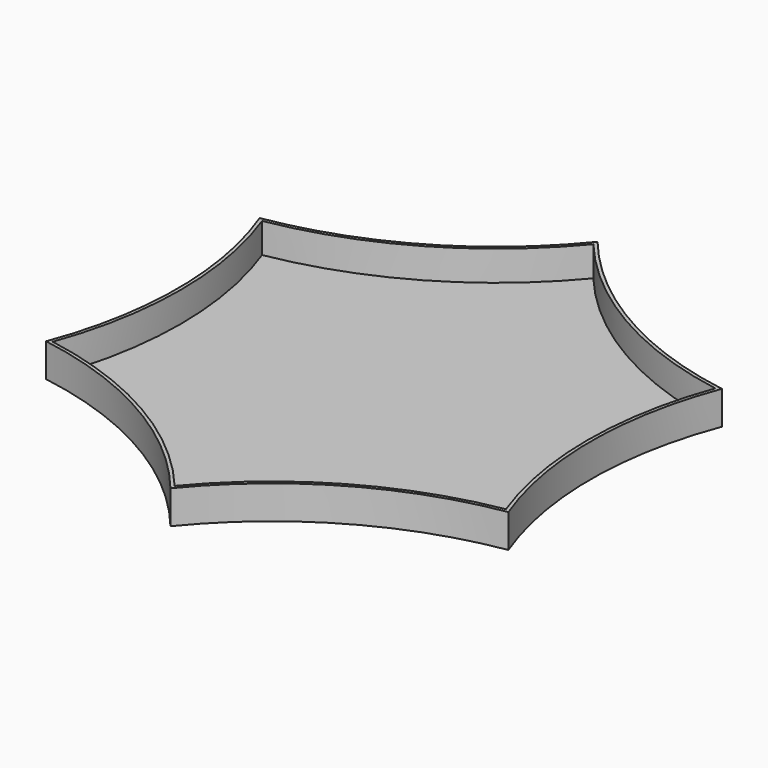
from build123d import *

# Parameters (mm, degrees)
F1_DEPTH = 25
F2_T     = -2.5


with BuildPart() as f1:
    # F0 (on Top) → F1 (new body)
    with BuildSketch(Plane.XY):
        with BuildLine():
            ThreePointArc((-173.205081, 100), (-154.860158, 0), (-173.205081, -100))
            ThreePointArc((-173.205081, -100), (-77.430079, -134.112831), (0, -200))
            ThreePointArc((0, -200), (77.430079, -134.112831), (173.205081, -100))
            ThreePointArc((173.205081, -100), (154.860158, 0), (173.205081, 100))
            ThreePointArc((173.205081, 100), (77.430079, 134.112831), (0, 200))
            ThreePointArc((0, 200), (-77.430079, 134.112831), (-173.205081, 100))
        make_face()
    extrude(amount=F1_DEPTH)

    # F2
    f2_openings = [f1.faces().sort_by_distance(p)[0] for p in [
        (0, 0, 25),
    ]]
    offset(amount=F2_T, openings=f2_openings)


solid = f1.part
